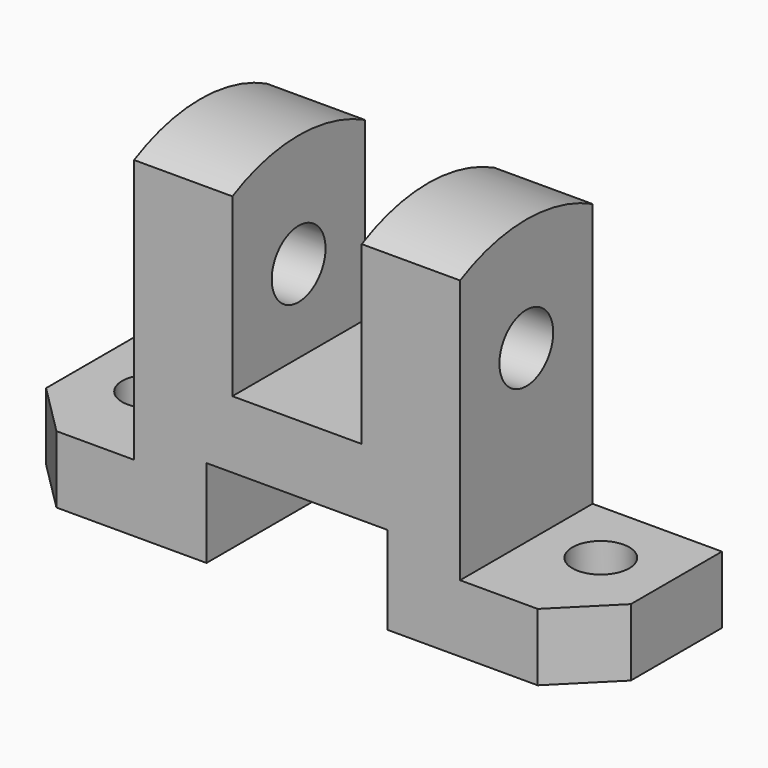
from build123d import *

# Parameters (mm, degrees)
F1_DEPTH  = 16
F2_R      = 5.5
F3_DEPTH  = 25
F4_DEPTH  = 13.001
F5_R      = 6.5
F6_DEPTH  = 88.001
F8_DEPTH  = 19
F10_DEPTH = 19


with BuildPart() as f1:
    # F0 (on Front) → F1 (new body, symmetric)
    with BuildSketch(Plane.XZ):
        Polygon((-17.5, 0), (0, 0), (17.5, 0), (17.5, -17), (56.5, -17), (56.5, -4), (31.5, -4), (31.5, 47), (12.5, 47), (12.5, 13), (0, 13), (-12.5, 13), (-12.5, 47), (-31.5, 47), (-31.5, -4), (-56.5, -4), (-56.5, -17), (-17.5, -17), align=None)
    extrude(amount=F1_DEPTH, both=True)

    # F2 (on face) → F3 (cut)
    with BuildSketch(Plane.XY.offset(-4)):
        Polygon((46.5, -16), (56.5, -16), (56.5, -6), align=None)
        Polygon((-46.5, -16), (-56.5, -6), (-56.5, -16), align=None)
        with Locations((43.5, 3)):
            Circle(F2_R)
        with Locations((-43.5, 3)):
            Circle(F2_R)
    extrude(amount=-F3_DEPTH, mode=Mode.SUBTRACT)

    # F2 (on face) → F4 (cut, through all)
    with BuildSketch(Plane.XY.offset(-4)):
        with Locations((43.5, 3)):
            Circle(F2_R)
        with Locations((-43.5, 3)):
            Circle(F2_R)
    extrude(amount=-F4_DEPTH, mode=Mode.SUBTRACT)

    # F5 (on face) → F6 (cut, through all)
    with BuildSketch(Plane.YZ.offset(31.5)):
        with Locations((0, 29)):
            Circle(F5_R)
    extrude(amount=-F6_DEPTH, mode=Mode.SUBTRACT)

    # F7 (on face) → F8 (join)
    with BuildSketch(Plane.YZ.offset(31.5)):
        with BuildLine():
            Line((-16, 47), (16, 47))
            ThreePointArc((16, 47), (0, 50.871235), (-16, 47))
        make_face()
    extrude(amount=-F8_DEPTH)

    # F9 (on face) → F10 (join)
    with BuildSketch(Plane(origin=(-31.5, 0, 0), x_dir=(0, -1, 0), z_dir=(-1, 0, 0))):
        with BuildLine():
            Line((-16, 47), (16, 47))
            ThreePointArc((16, 47), (0, 50.871235), (-16, 47))
        make_face()
    extrude(amount=-F10_DEPTH)


solid = f1.part
